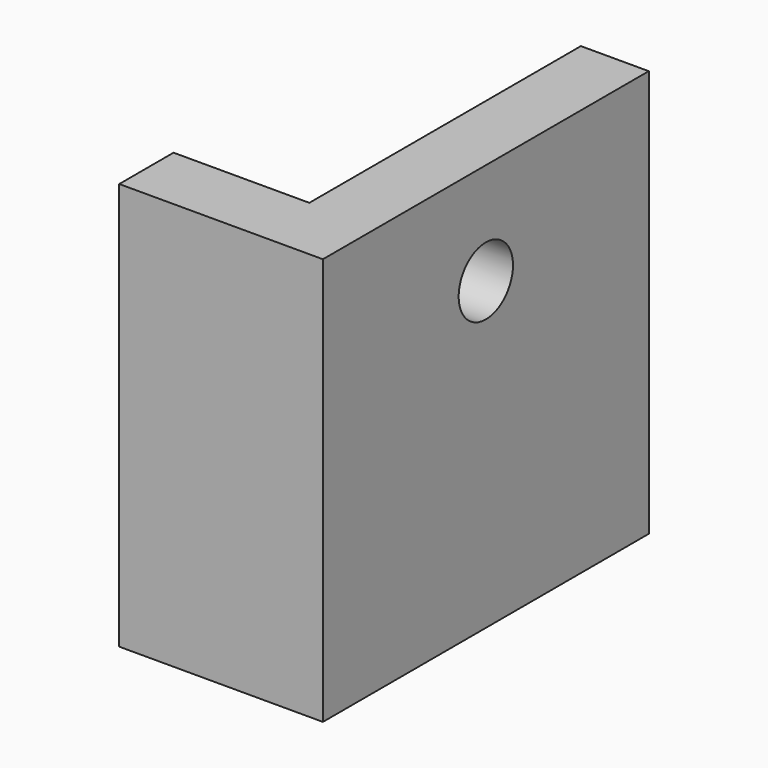
from build123d import *

# Parameters (mm, degrees)
F1_DEPTH = 76.2
F2_R     = 12.7
F3_DEPTH = 33.528


with BuildPart() as f1:
    # F0 (on Top) → F1 (new body, symmetric)
    with BuildSketch(Plane.XY):
        Polygon((-76.2, 0), (0, 0), (0, 152.4), (-25.4, 152.4), (-25.4, 25.4), (-76.2, 25.4), align=None)
    extrude(amount=F1_DEPTH, both=True)

    # F2 (on face) → F3 (cut)
    with BuildSketch(Plane.YZ):
        with Locations((76.2, 38.1)):
            Circle(F2_R)
    extrude(amount=-F3_DEPTH, mode=Mode.SUBTRACT)


solid = f1.part
